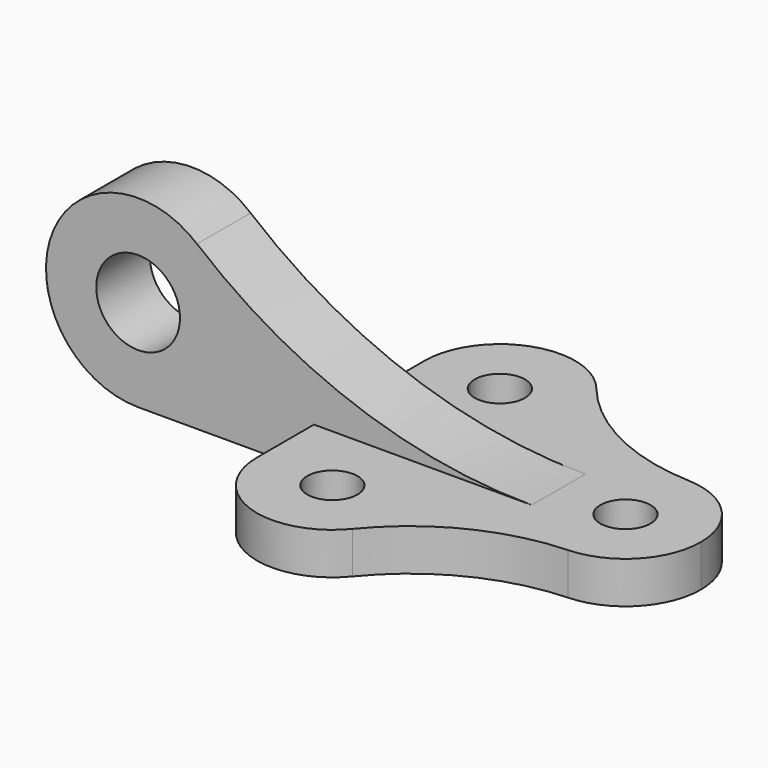
from build123d import *

# Parameters (mm, degrees)
F0_R     = 6
F1_DEPTH = 10
F2_R     = 10
F3_DEPTH = 8


with BuildPart() as f1:
    # F0 (on Top) → F1 (new body)
    with BuildSketch(Plane.XY):
        with BuildLine():
            ThreePointArc((0.720724, -17.985565), (-18, 0), (0.720724, 17.985565))
            ThreePointArc((0.720724, 17.985565), (-19.637945, 23.224109), (-36.043982, 36.367918))
            ThreePointArc((-36.043982, 36.367918), (-33.041104, 31.032896), (-32, 25))
            ThreePointArc((-32, 25), (-50, 7), (-68, 25))
            Line((-68, 25), (-68, -25))
            ThreePointArc((-68, -25), (-50, -7), (-32, -25))
            ThreePointArc((-32, -25), (-33.041104, -31.032896), (-36.043982, -36.367918))
            ThreePointArc((-36.043982, -36.367918), (-19.637945, -23.224109), (0.720724, -17.985565))
        make_face()
        with BuildLine():
            ThreePointArc((-32, 25), (-33.041104, 31.032896), (-36.043982, 36.367918))
            ThreePointArc((-36.043982, 36.367918), (-56.032896, 41.958896), (-68, 25))
            ThreePointArc((-68, 25), (-50, 7), (-32, 25))
        make_face()
        with Locations((-50, 25)):
            Circle(F0_R, mode=Mode.SUBTRACT)
        with BuildLine():
            ThreePointArc((0.720724, -17.985565), (12.980236, -12.470505), (18, 0))
            ThreePointArc((18, 0), (12.980236, 12.470505), (0.720724, 17.985565))
            ThreePointArc((0.720724, 17.985565), (-18, 0), (0.720724, -17.985565))
        make_face()
        Circle(F0_R, mode=Mode.SUBTRACT)
        with BuildLine():
            ThreePointArc((-68, -25), (-56.032896, -41.958896), (-36.043982, -36.367918))
            ThreePointArc((-36.043982, -36.367918), (-33.041104, -31.032896), (-32, -25))
            ThreePointArc((-32, -25), (-50, -7), (-68, -25))
        make_face()
        with Locations((-50, -25)):
            Circle(F0_R, mode=Mode.SUBTRACT)
    extrude(amount=F1_DEPTH)

    # F2 (on Front) → F3 (join, symmetric)
    with BuildSketch(Plane.XZ):
        with BuildLine():
            Line((-110, 0), (-68, 0))
            Line((-68, 0), (-68, 10))
            Line((-68, 10), (-36.043982, 10))
            Line((-36.043982, 10), (-15.978726, 10))
            ThreePointArc((-15.978726, 10), (-58.487228, 17.449895), (-95.928789, 38.911565))
            ThreePointArc((-95.928789, 38.911565), (-90.080579, 31.338987), (-88, 22))
            ThreePointArc((-88, 22), (-94.443651, 6.443651), (-110, 0))
        make_face()
        with BuildLine():
            ThreePointArc((-95.928789, 38.911565), (-130.688818, 29.481496), (-110, 0))
            ThreePointArc((-110, 0), (-94.443651, 6.443651), (-88, 22))
            ThreePointArc((-88, 22), (-90.080579, 31.338987), (-95.928789, 38.911565))
        make_face()
        with Locations((-110, 22)):
            Circle(F2_R, mode=Mode.SUBTRACT)
    extrude(amount=F3_DEPTH, both=True)


solid = f1.part
